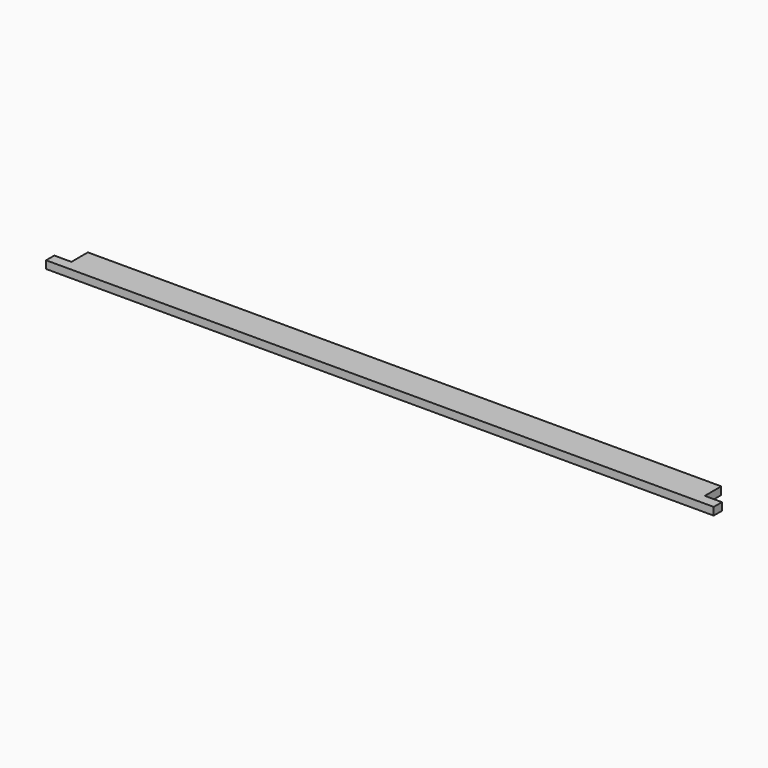
from build123d import *

# Parameters (mm, degrees)
F0_W     = 780
F0_H     = 36
F1_DEPTH = 9
F2_W     = 20
F2_H     = 24
F3_DEPTH = 9


with BuildPart() as f1:
    # F0 (on Top) → F1 (new body)
    with BuildSketch(Plane.XY):
        Rectangle(F0_W, F0_H)
    extrude(amount=F1_DEPTH)

    # F2 (on face) → F3 (cut, through all)
    with BuildSketch(Plane.XY.offset(9)):
        with Locations((-380, 6)):
            Rectangle(F2_W, F2_H)
        with Locations((380, 6)):
            Rectangle(F2_W, F2_H)
    extrude(amount=-F3_DEPTH, mode=Mode.SUBTRACT)


solid = f1.part
